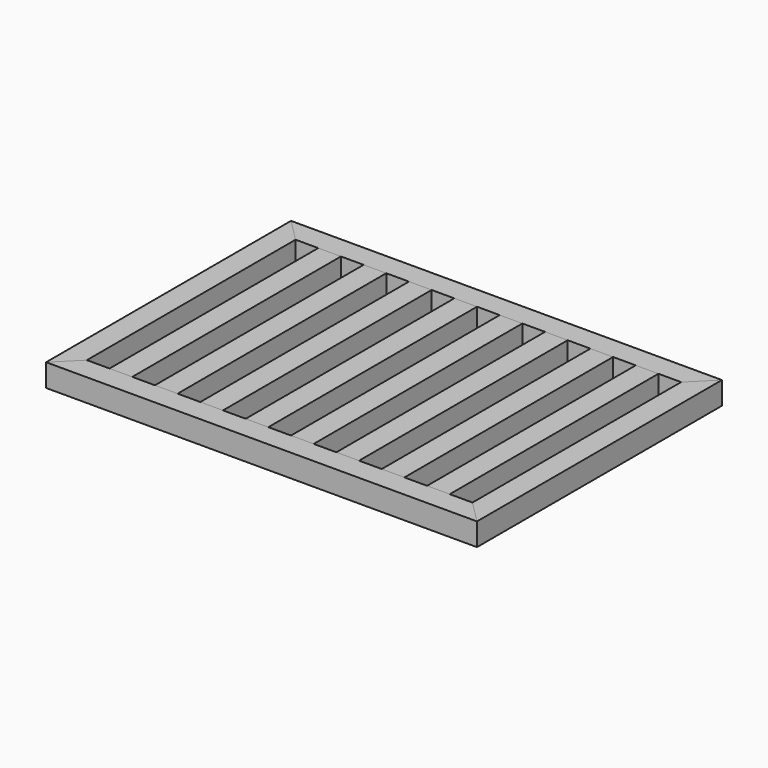
from build123d import *

# Parameters (mm, degrees)
F1_DEPTH  = 25.4
F2_DEPTH  = 25.4
F3_DEPTH  = 25.4
F4_DEPTH  = 25.4
F5_W      = 25.4
F5_H      = 292.1
F6_DEPTH  = 25.4
F7_DEPTH  = 25.4
F8_DEPTH  = 25.4
F9_DEPTH  = 25.4
F10_DEPTH = 25.4
F11_DEPTH = 25.4
F12_DEPTH = 25.4
F13_DEPTH = 25.4


with BuildPart() as f1:
    # F0 (on Top) → F1 (new body)
    with BuildSketch(Plane.XY):
        Polygon((241.3, 171.45), (-241.3, 171.45), (-215.9, 146.05), (215.9, 146.05), align=None)
    extrude(amount=F1_DEPTH)


with BuildPart() as f2:
    # F0 (on Top) → F2 (new body)
    with BuildSketch(Plane.XY):
        Polygon((-241.3, 171.45), (-241.3, -171.45), (-215.9, -146.05), (-215.9, 146.05), align=None)
    extrude(amount=F2_DEPTH)


with BuildPart() as f3:
    # F0 (on Top) → F3 (new body)
    with BuildSketch(Plane.XY):
        Polygon((-215.9, -146.05), (-241.3, -171.45), (241.3, -171.45), (215.9, -146.05), align=None)
    extrude(amount=F3_DEPTH)


with BuildPart() as f4:
    # F0 (on Top) → F4 (new body)
    with BuildSketch(Plane.XY):
        Polygon((215.9, -146.05), (241.3, -171.45), (241.3, 171.45), (215.9, 146.05), align=None)
    extrude(amount=F4_DEPTH)


with BuildPart() as f6:
    # F5 (on Top) → F6 (new body)
    with BuildSketch(Plane.XY):
        with Locations((-177.8, 0)):
            Rectangle(F5_W, F5_H)
    extrude(amount=F6_DEPTH)


with BuildPart() as f7:
    # F5 (on Top) → F7 (new body)
    with BuildSketch(Plane.XY):
        with Locations((-127, 0)):
            Rectangle(F5_W, F5_H)
    extrude(amount=F7_DEPTH)


with BuildPart() as f8:
    # F5 (on Top) → F8 (new body)
    with BuildSketch(Plane.XY):
        with Locations((-76.2, 0)):
            Rectangle(F5_W, F5_H)
    extrude(amount=F8_DEPTH)


with BuildPart() as f9:
    # F5 (on Top) → F9 (new body)
    with BuildSketch(Plane.XY):
        with Locations((-25.4, 0)):
            Rectangle(F5_W, F5_H)
    extrude(amount=F9_DEPTH)


with BuildPart() as f10:
    # F5 (on Top) → F10 (new body)
    with BuildSketch(Plane.XY):
        with Locations((25.4, 0)):
            Rectangle(F5_W, F5_H)
    extrude(amount=F10_DEPTH)


with BuildPart() as f11:
    # F5 (on Top) → F11 (new body)
    with BuildSketch(Plane.XY):
        with Locations((76.2, 0)):
            Rectangle(F5_W, F5_H)
    extrude(amount=F11_DEPTH)


with BuildPart() as f12:
    # F5 (on Top) → F12 (new body)
    with BuildSketch(Plane.XY):
        with Locations((127, 0)):
            Rectangle(F5_W, F5_H)
    extrude(amount=F12_DEPTH)


with BuildPart() as f13:
    # F5 (on Top) → F13 (new body)
    with BuildSketch(Plane.XY):
        with Locations((177.8, 0)):
            Rectangle(F5_W, F5_H)
    extrude(amount=F13_DEPTH)


solid = Compound([f1.part, f2.part, f3.part, f4.part, f6.part, f7.part, f8.part, f9.part, f10.part, f11.part, f12.part, f13.part])
